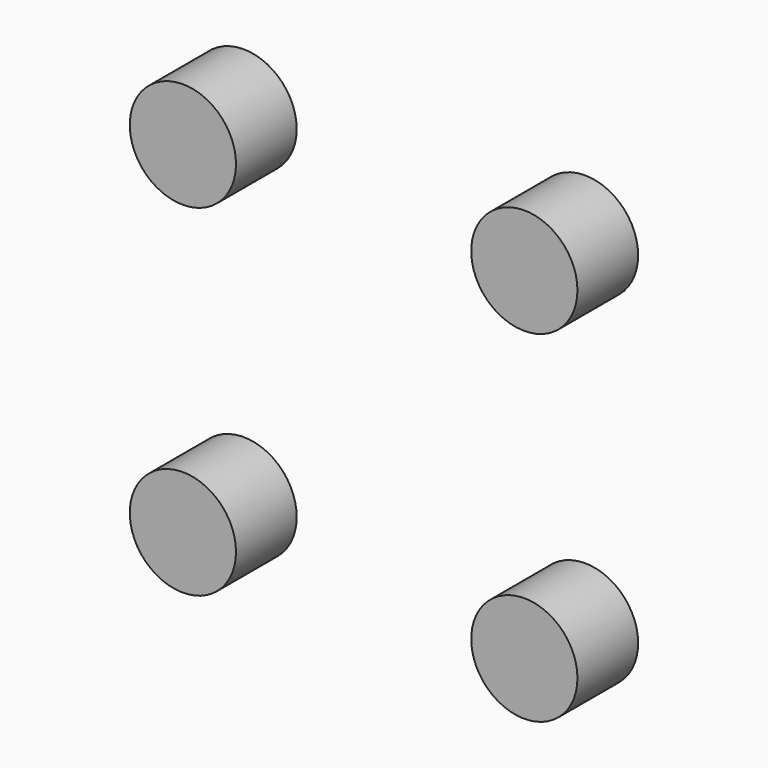
from build123d import *

# Parameters (mm, degrees)
CYLINDER090_R           = 3.5
CYLINDER090_DEPTH       = 5
CYLINDER091_R           = 3.5
CYLINDER091_DEPTH       = 5
CYLINDER089_R           = 3.5
CYLINDER089_DEPTH       = 5
CYLINDER088_R           = 3.5
CYLINDER088_DEPTH       = 5
FUSION026030_ROLL_ANGLE = 90


with BuildPart() as zylinder081:
    # Cylinder090 → Cylinder090 (new body)
    with BuildSketch(Plane(origin=(19, 14, 0), x_dir=(1, 0, 0), z_dir=(0, 0, 1))):
        Circle(CYLINDER090_R)
    extrude(amount=CYLINDER090_DEPTH)


with BuildPart() as zylinder082:
    # Cylinder091 → Cylinder091 (new body)
    with BuildSketch(Plane(origin=(19, 36.5, 0), x_dir=(1, 0, 0), z_dir=(0, 0, 1))):
        Circle(CYLINDER091_R)
    extrude(amount=CYLINDER091_DEPTH)


with BuildPart() as zylinder080:
    # Cylinder089 → Cylinder089 (new body)
    with BuildSketch(Plane(origin=(-3.5, 36.5, 0), x_dir=(1, 0, 0), z_dir=(0, 0, 1))):
        Circle(CYLINDER089_R)
    extrude(amount=CYLINDER089_DEPTH)


with BuildPart() as obj1:
    # Cylinder088 → Cylinder088 (new body)
    with BuildSketch(Plane(origin=(-3.5, 14, 0), x_dir=(1, 0, 0), z_dir=(0, 0, 1))):
        Circle(CYLINDER088_R)
    extrude(amount=CYLINDER088_DEPTH)

    # Fusion026030: union Zylinder081, Zylinder082, Zylinder080
    add(zylinder081.part)
    add(zylinder082.part)
    add(zylinder080.part)


with BuildPart() as obj1_1:
    # Fusion026030 roll: moved
    add(obj1.part.rotate(Axis((0, 0, 0), (1, 0, 0)), FUSION026030_ROLL_ANGLE))


with BuildPart() as obj1_2:
    # Fusion026030 placement: moved
    add(obj1_1.part.moved(Location((26, -5, -10.5))))


solid = obj1_2.part
